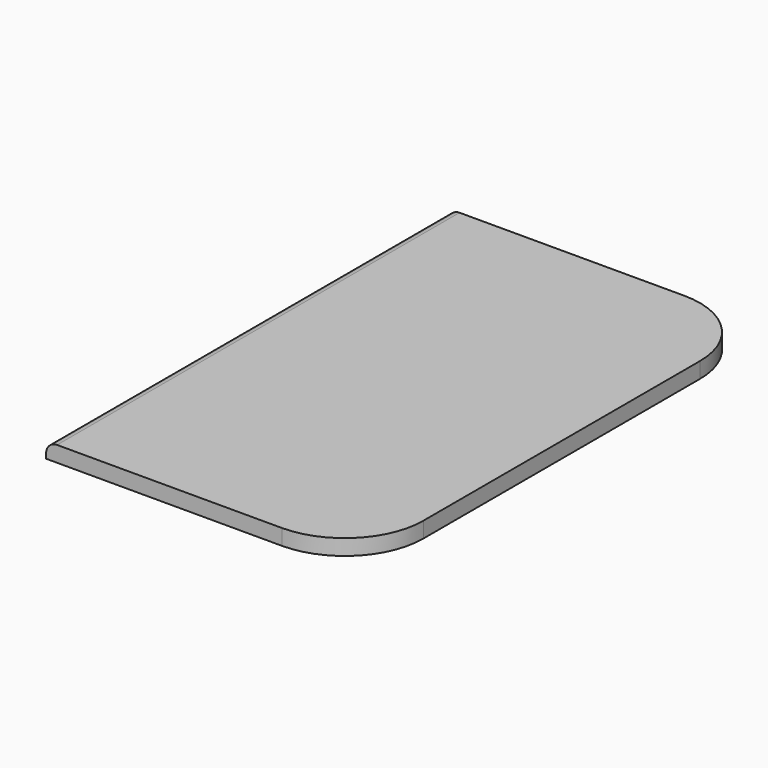
from build123d import *

# Parameters (mm, degrees)
SKETCH007_W  = 2
SKETCH007_H  = 3.2
PAD010_DEPTH = 0.1
FILLET013_R  = 0.5
FILLET014_R  = 0.07


with BuildPart() as part:
    # Sketch007 → Pad010 (new body)
    with BuildSketch(Plane.XY):
        with Locations((-4.33, 0.2)):
            Rectangle(SKETCH007_W, SKETCH007_H)
    extrude(amount=PAD010_DEPTH)

    # Fillet013
    fillet013_edges = [part.edges().sort_by_distance(p)[0] for p in [
        (-3.33, -1.4, 0.05),
        (-3.33, 1.8, 0.05),
    ]]
    fillet(fillet013_edges, radius=FILLET013_R)

    # Fillet014
    fillet014_edges = [part.edges().sort_by_distance(p)[0] for p in [
        (-5.33, 0.2, 0.1),
    ]]
    fillet(fillet014_edges, radius=FILLET014_R)


with BuildPart() as part_1:
    # Body008 placement: moved
    add(part.part.moved(Location((0, 0, 6.5))))


solid = part_1.part
